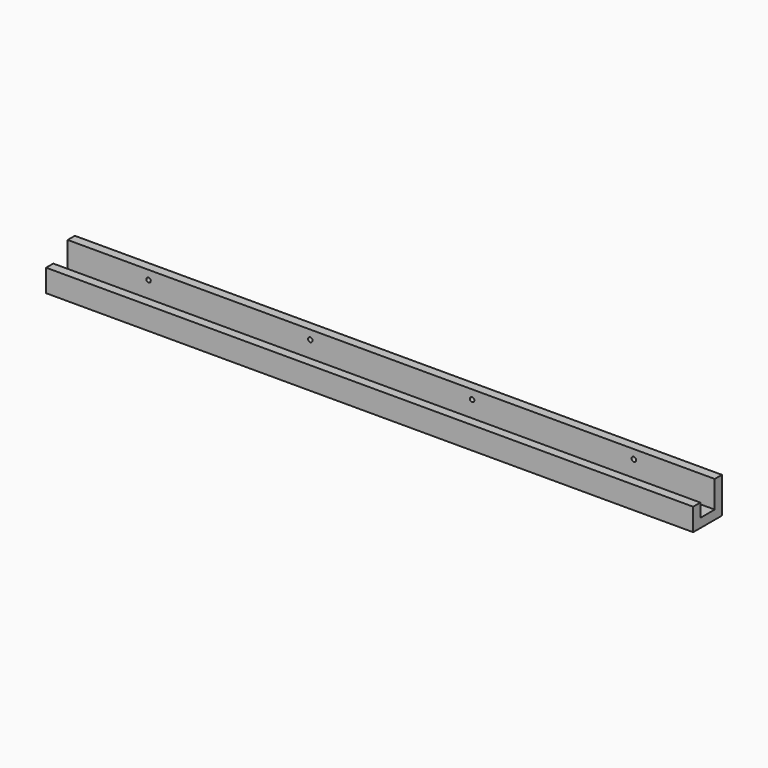
from build123d import *

# Parameters (mm, degrees)
F0_W     = 914.4
F0_H     = 50.8
F1_DEPTH = 12.7
F2_W     = 914.4
F2_H     = 12.7
F3_DEPTH = 38.1
F4_W     = 914.4
F4_H     = 12.7
F5_DEPTH = 19.05
F7_D     = 6.35


with BuildPart() as f1:
    # F0 (on Front) → F1 (new body)
    with BuildSketch(Plane.XZ):
        Rectangle(F0_W, F0_H)
    extrude(amount=F1_DEPTH)

    # F2 (on face) → F3 (join)
    with BuildSketch(Plane.XZ.offset(12.7)):
        with Locations((0, -19.05)):
            Rectangle(F2_W, F2_H)
    extrude(amount=F3_DEPTH)

    # F4 (on face) → F5 (join)
    with BuildSketch(Plane.XY.offset(-12.7)):
        with Locations((0, -44.45)):
            Rectangle(F4_W, F4_H)
    extrude(amount=F5_DEPTH)

    # F7 (through all)
    with Locations(Plane.XZ.offset(12.7)):
        with Locations((-342.9, 12.7), (-114.3, 12.7), (114.3, 12.7), (342.9, 12.7)):
            Hole(F7_D / 2)


solid = f1.part
